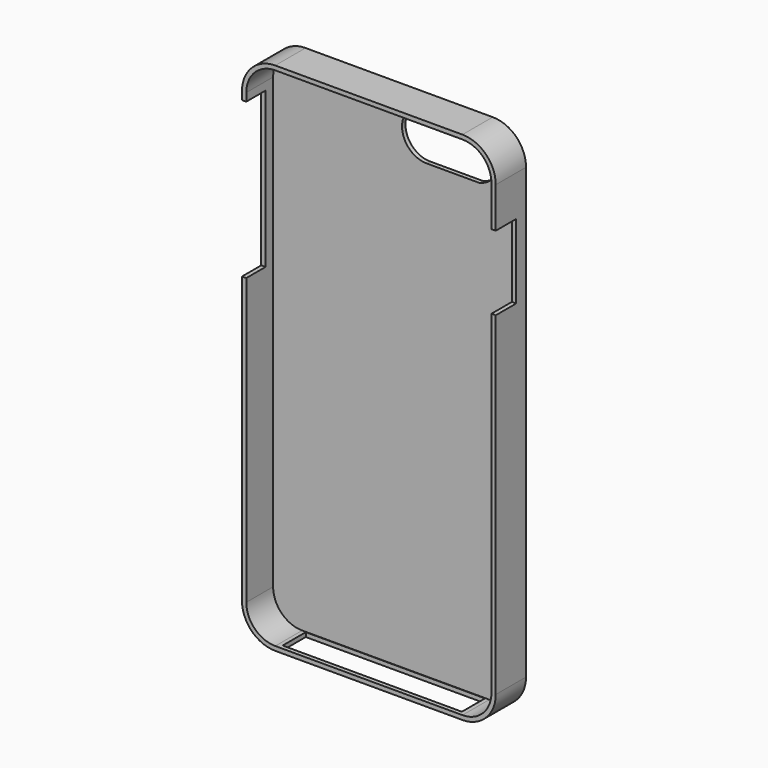
from build123d import *

# Parameters (mm, degrees)
F0_W      = 68.1
F0_H      = 138.3
F1_DEPTH  = 5.08
F2_R      = 8.93259
F3_T      = -1.15
F4_W      = 24.09836
F4_H      = 13.196725
F5_DEPTH  = 12.5
F6_W      = 48.097777
F6_H      = 7.753484
F7_DEPTH  = 12.5
F8_W      = 10.118616
F8_H      = 41.666549
F9_DEPTH  = 12.5
F10_W     = 6.856616
F10_H     = 19.977162
F11_DEPTH = 12.5
F12_SIZE  = 5
F14_DEPTH = 25
F16_DEPTH = 25


with BuildPart() as f1:
    # F0 (on Front) → F1 (new body, symmetric)
    with BuildSketch(Plane.XZ):
        Rectangle(F0_W, F0_H)
    extrude(amount=F1_DEPTH, both=True)

    # F2
    f2_edges = [f1.edges().sort_by_distance(p)[0] for p in [
        (-34.05, 0, 69.15),
        (34.05, 0, 69.15),
        (34.05, 0, -69.15),
        (-34.05, 0, -69.15),
    ]]
    fillet(f2_edges, radius=F2_R)

    # F3
    f3_openings = [f1.faces().sort_by_distance(p)[0] for p in [
        (0, -5.08, 0),
    ]]
    offset(amount=F3_T, openings=f3_openings)

    # F4 (on face) → F5 (cut, symmetric)
    with BuildSketch(Plane.XZ):
        with Locations((15.348363, 59.815576)):
            Rectangle(F4_W, F4_H)
    extrude(amount=F5_DEPTH, both=True, mode=Mode.SUBTRACT)

    # F6 (on face) → F7 (cut, symmetric)
    with BuildSketch(Plane(origin=(0, 0, -69.15), x_dir=(1, 0, 0), z_dir=(0, 0, -1))):
        with Locations((0.003194, 0.064824)):
            Rectangle(F6_W, F6_H)
        with Locations((0.003194, 0.064824)):
            Rectangle(F6_W, F6_H)
    extrude(amount=F7_DEPTH, both=True, mode=Mode.SUBTRACT)

    # F8 (on face) → F9 (cut, symmetric)
    with BuildSketch(Plane(origin=(-34.05, 0, 0), x_dir=(0, -1, 0), z_dir=(-1, 0, 0))):
        with Locations((3.675346, 37.227889)):
            Rectangle(F8_W, F8_H)
    extrude(amount=F9_DEPTH, both=True, mode=Mode.SUBTRACT)

    # F10 (on face) → F11 (cut, symmetric)
    with BuildSketch(Plane.YZ.offset(34.05)):
        with Locations((-1.651692, 39.359077)):
            Rectangle(F10_W, F10_H)
    extrude(amount=F11_DEPTH, both=True, mode=Mode.SUBTRACT)

    # F12
    f12_edges = [f1.edges().sort_by_distance(p)[0] for p in [
        (3.299183, 4.505, 66.413939),
        (27.397543, 4.505, 66.413939),
        (27.397543, 4.505, 53.217214),
        (3.299183, 4.505, 53.217214),
    ]]
    chamfer(f12_edges, length=F12_SIZE)

    # F13 (on face) → F14 (cut)
    with BuildSketch(Plane(origin=(0, 5.08, 0), x_dir=(-1, 0, 0), z_dir=(0, 1, 0))):
        with BuildLine():
            Line((-27.397543, 61.413939), (-22.397543, 66.413939))
            ThreePointArc((-22.397543, 66.413939), (-27.728042, 59.815576), (-22.397543, 53.217214))
            Line((-22.397543, 53.217214), (-27.397543, 58.217214))
            Line((-27.397543, 58.217214), (-27.397543, 61.413939))
        make_face()
    extrude(amount=-F14_DEPTH, mode=Mode.SUBTRACT)

    # F15 (on face) → F16 (cut)
    with BuildSketch(Plane(origin=(0, 5.08, 0), x_dir=(-1, 0, 0), z_dir=(0, 1, 0))):
        with BuildLine():
            Line((-3.299183, 58.217214), (-8.299183, 53.217214))
            ThreePointArc((-8.299183, 53.217214), (-1.70082, 59.815576), (-8.299183, 66.413939))
            Line((-8.299183, 66.413939), (-3.299183, 61.413939))
            Line((-3.299183, 61.413939), (-3.299183, 58.217214))
        make_face()
    extrude(amount=-F16_DEPTH, mode=Mode.SUBTRACT)


solid = f1.part
